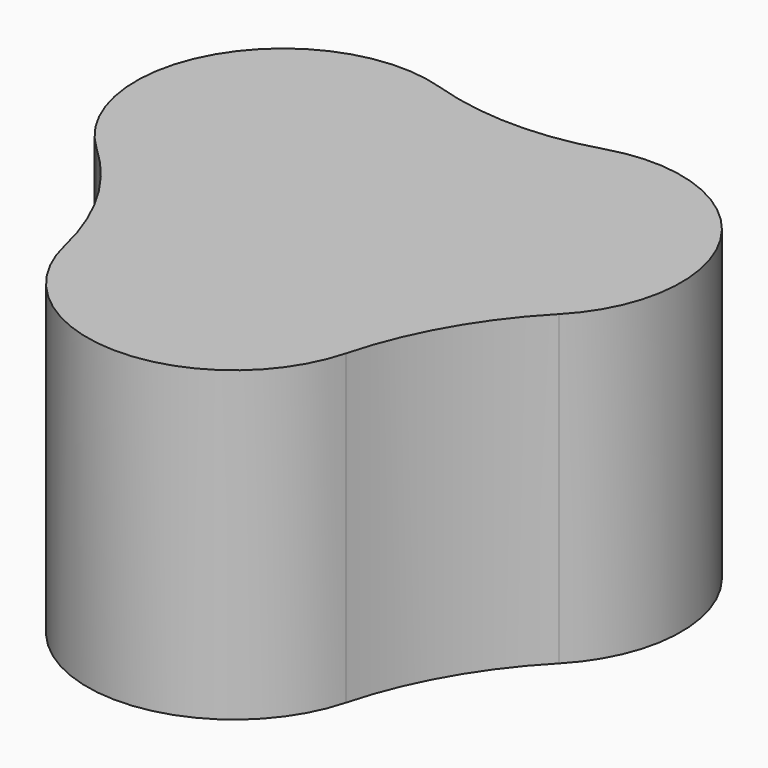
from build123d import *

# Parameters (mm, degrees)
PAD_DEPTH = 40


with BuildPart() as part:
    # Sketch → Pad (new body)
    with BuildSketch(Plane.XY):
        with BuildLine():
            ThreePointArc((99.568041, 57.186428), (102.184419, 80.183083), (80.558114, 88.428958))
            ThreePointArc((59.014805, 88.598258), (69.773515, 86.866403), (80.558114, 88.428958))
            ThreePointArc((59.014805, 88.598258), (36.601801, 80.00639), (40.191065, 56.272868))
            ThreePointArc((50.946679, 37.675575), (46.989277, 47.795702), (40.191065, 56.272868))
            ThreePointArc((50.946679, 37.675575), (69.236173, 22.751657), (88.085246, 36.962264))
            ThreePointArc((99.568041, 57.186428), (92.521065, 47.815622), (88.085246, 36.962264))
        make_face()
    extrude(amount=PAD_DEPTH)


solid = part.part
